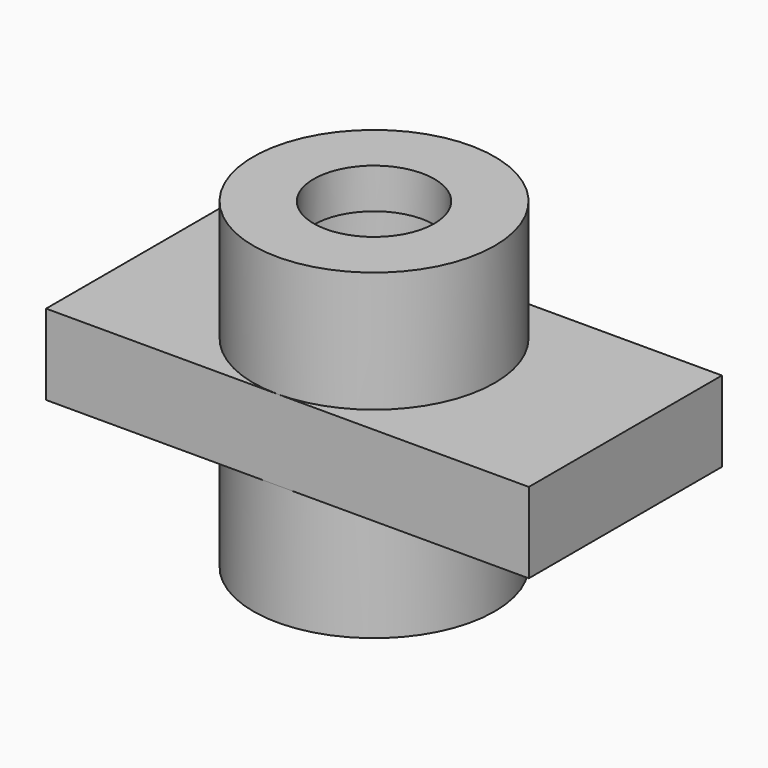
from build123d import *

# Parameters (mm, degrees)
F2_W     = 76.2
F2_H     = 12.7
F3_DEPTH = 19.05
F4_R     = 9.525
F5_DEPTH = 31.751


with BuildPart() as f1:
    # F0 (on Front) → F1 (revolve)
    with BuildSketch(Plane.XZ):
        Polygon((9.525, 38.1), (9.525, 0), (19.05, 0), (19.05, 50.8), (9.525, 50.8), (9.525, 44.45), (12.7, 44.45), (12.7, 38.1), align=None)
    revolve(axis=Axis((0, 0, 25.4), (0, 0, 1)))

    # F2 (on Front) → F3 (join, symmetric)
    with BuildSketch(Plane.XZ):
        with Locations((1.573766, 25.4)):
            Rectangle(F2_W, F2_H)
    extrude(amount=F3_DEPTH, both=True)

    # F4 (on face) → F5 (cut, through all)
    with BuildSketch(Plane.XY.offset(31.75)):
        Circle(F4_R)
    extrude(amount=-F5_DEPTH, mode=Mode.SUBTRACT)


solid = f1.part
